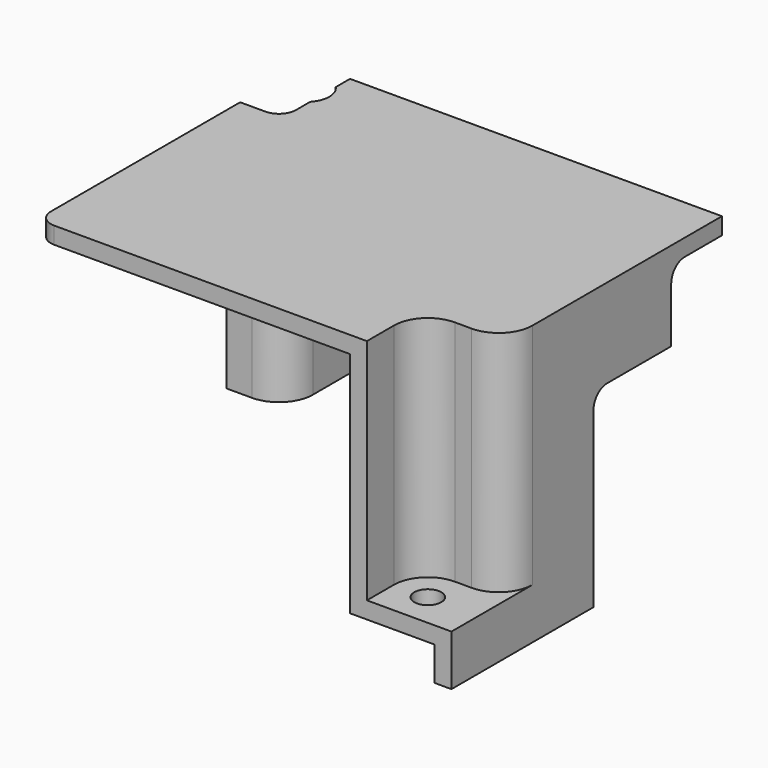
from build123d import *

# Parameters (mm, degrees)
SKETCH_W        = 49
SKETCH_H        = 40
PAD_DEPTH       = 33
SKETCH001_W     = 47
SKETCH001_H     = 21
POCKET_DEPTH    = 31
SKETCH002_W     = 42
SKETCH002_H     = 19
POCKET001_DEPTH = 31
SKETCH003_W     = 7
SKETCH003_H     = 7
POCKET002_DEPTH = 31
SKETCH004_W     = 10
SKETCH004_H     = 10
PAD001_DEPTH    = 27
SKETCH005_W     = 10
SKETCH005_H     = 8
POCKET003_DEPTH = 27
SKETCH006_W     = 7
SKETCH006_H     = 12
POCKET004_DEPTH = 4
SKETCH007_W     = 5
SKETCH007_H     = 10
POCKET005_DEPTH = 27
FILLET_R        = 4
SKETCH008_R     = 1.6
POCKET006_DEPTH = 6.001
SKETCH009_R     = 1.6
POCKET007_DEPTH = 6.001
SKETCH010_R     = 2.75
POCKET008_DEPTH = 27
FILLET001_R     = 2
FILLET002_R     = 4
SKETCH011_W     = 11.5
SKETCH011_H     = 8.5
PAD002_DEPTH    = 2
FILLET003_R     = 2
FILLET004_R     = 4
FILLET005_R     = 6
FILLET006_R     = 2
FILLET007_R     = 2


with BuildPart() as part:
    # Sketch → Pad (new body)
    with BuildSketch(Plane.XY):
        with Locations((24.5, 20)):
            Rectangle(SKETCH_W, SKETCH_H)
    extrude(amount=PAD_DEPTH)

    # Sketch001 → Pocket (cut)
    with BuildSketch(Plane.XY):
        with Locations((23.5, 10.5)):
            Rectangle(SKETCH001_W, SKETCH001_H)
    extrude(amount=POCKET_DEPTH, mode=Mode.SUBTRACT)

    # Sketch002 (on Face4 of Pocket) → Pocket001 (cut)
    with BuildSketch(Plane(origin=(0, 0, 0), x_dir=(1, 0, 0), z_dir=(0, 0, -1))):
        with Locations((28, -30.5)):
            Rectangle(SKETCH002_W, SKETCH002_H)
    extrude(amount=-POCKET001_DEPTH, mode=Mode.SUBTRACT)

    # Sketch003 (on Face10 of Pocket001) → Pocket002 (cut)
    with BuildSketch(Plane(origin=(0, 0, 0), x_dir=(1, 0, 0), z_dir=(0, 0, -1))):
        with Locations((3.5, -24.5)):
            Rectangle(SKETCH003_W, SKETCH003_H)
    extrude(amount=-POCKET002_DEPTH, mode=Mode.SUBTRACT)

    # Sketch004 (on Face12 of Pocket002) → Pad001 (join)
    with BuildSketch(Plane(origin=(0, 0, 31), x_dir=(1, 0, 0), z_dir=(0, 0, -1))):
        with Locations((42, -5)):
            Rectangle(SKETCH004_W, SKETCH004_H)
    extrude(amount=PAD001_DEPTH)

    # Sketch005 (on Face7 of Pad001) → Pocket003 (cut)
    with BuildSketch(Plane.XY.offset(33)):
        with Locations((44, 4)):
            Rectangle(SKETCH005_W, SKETCH005_H)
    extrude(amount=-POCKET003_DEPTH, mode=Mode.SUBTRACT)

    # Sketch006 (on Face2 of Pocket003) → Pocket004 (cut)
    with BuildSketch(Plane(origin=(0, 0, 0), x_dir=(1, 0, 0), z_dir=(0, 0, -1))):
        with Locations((3.5, -34)):
            Rectangle(SKETCH006_W, SKETCH006_H)
    extrude(amount=-POCKET004_DEPTH, mode=Mode.SUBTRACT)

    # Sketch007 (on Face7 of Pocket004) → Pocket005 (cut)
    with BuildSketch(Plane.XY.offset(33)):
        with Locations((2.5, 35)):
            Rectangle(SKETCH007_W, SKETCH007_H)
    extrude(amount=-POCKET005_DEPTH, mode=Mode.SUBTRACT)

    # Fillet
    fillet_edges = [part.edges().sort_by_distance(p)[0] for p in [
        (39, 8, 19.5),
    ]]
    fillet(fillet_edges, radius=FILLET_R)

    # Sketch008 (on Face11 of Fillet) → Pocket006 (cut, through all)
    with BuildSketch(Plane.XY.offset(6)):
        with Locations((43, 4)):
            Circle(SKETCH008_R)
    extrude(amount=-POCKET006_DEPTH, mode=Mode.SUBTRACT)

    # Sketch009 (on Face16 of Pocket006) → Pocket007 (cut, through all)
    with BuildSketch(Plane.XY.offset(6)):
        with Locations((3, 36)):
            Circle(SKETCH009_R)
    extrude(amount=-POCKET007_DEPTH, mode=Mode.SUBTRACT)

    # Sketch010 (on Face1 of Pocket007) → Pocket008 (cut)
    with BuildSketch(Plane.XY.offset(33)):
        with Locations((3, 36)):
            Circle(SKETCH010_R)
    extrude(amount=-POCKET008_DEPTH, mode=Mode.SUBTRACT)

    # Fillet001
    fillet001_edges = [part.edges().sort_by_distance(p)[0] for p in [
        (5, 30, 19.5),
    ]]
    fillet(fillet001_edges, radius=FILLET001_R)

    # Fillet002
    fillet002_edges = [part.edges().sort_by_distance(p)[0] for p in [
        (49, 8, 19.5),
    ]]
    fillet(fillet002_edges, radius=FILLET002_R)

    # Sketch011 (on Face5 of Fillet002) → Pad002 (join)
    with BuildSketch(Plane.YZ.offset(49)):
        with Locations((26.75, 26.75)):
            Rectangle(SKETCH011_W, SKETCH011_H)
    extrude(amount=-PAD002_DEPTH)

    # Fillet003
    fillet003_edges = [part.edges().sort_by_distance(p)[0] for p in [
        (48, 21, 22.5),
        (48, 32.5, 31),
    ]]
    fillet(fillet003_edges, radius=FILLET003_R)

    # Fillet004
    fillet004_edges = [part.edges().sort_by_distance(p)[0] for p in [
        (7, 28, 17.5),
    ]]
    fillet(fillet004_edges, radius=FILLET004_R)

    # Fillet005
    fillet005_edges = [part.edges().sort_by_distance(p)[0] for p in [
        (37, 10, 17.5),
    ]]
    fillet(fillet005_edges, radius=FILLET005_R)

    # Fillet006
    fillet006_edges = [part.edges().sort_by_distance(p)[0] for p in [
        (47, 10, 17.5),
    ]]
    fillet(fillet006_edges, radius=FILLET006_R)

    # Fillet007
    fillet007_edges = [part.edges().sort_by_distance(p)[0] for p in [
        (0, 0, 32),
    ]]
    fillet(fillet007_edges, radius=FILLET007_R)


solid = part.part
